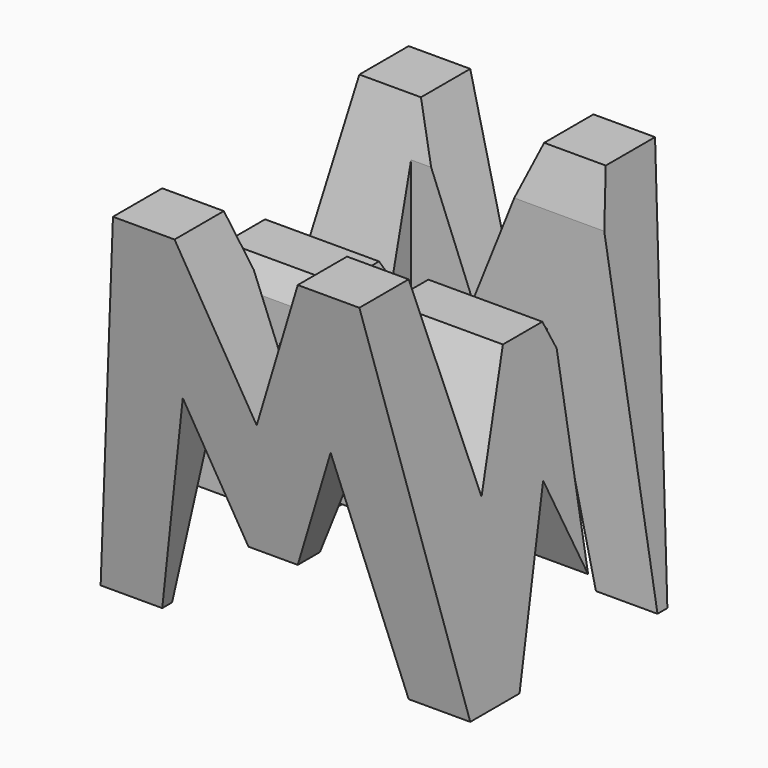
from build123d import *

# Parameters (mm, degrees)
F1_DEPTH = 38.1
F5_DEPTH = 38.1
F6_DEPTH = 38.1
F7_W     = 25.4
F7_H     = 7.62
F8_DEPTH = 38.1


with BuildPart() as f1:
    # F0 (on Front) → F1 (new body)
    with BuildSketch(Plane.XZ):
        Polygon((6.35, 38.1), (0, 0), (6.35, 0), (11.43, 22.225), (16.51, 9.525), (21.59, 9.525), (26.67, 22.225), (31.75, 0), (38.1, 0), (31.75, 38.1), (25.4, 38.1), (19.05, 22.225), (12.7, 38.1), align=None)
        Polygon((0, 38.1), (0, 0), (6.35, 38.1), align=None)
        Polygon((11.43, 22.225), (6.35, 0), (31.75, 0), (26.67, 22.225), (21.59, 9.525), (16.51, 9.525), align=None)
        Polygon((25.4, 38.1), (12.7, 38.1), (19.05, 22.225), align=None)
        Polygon((31.75, 38.1), (38.1, 0), (38.1, 38.1), align=None)
    extrude(amount=F1_DEPTH)

    # F4 (on offset) → F5 (cut)
    with BuildSketch(Plane.YZ.offset(38.1)):
        Polygon((-31.75, 0), (-38.1, 38.1), (-38.1, 0), align=None)
        Polygon((-11.43, 17.450867), (-6.35, 38.1), (-31.75, 38.1), (-26.67, 17.417177), (-21.59, 28.575), (-16.51, 28.575), align=None)
        Polygon((-25.4, 0), (-12.7, 0), (-19.05, 15.875), align=None)
        Polygon((-6.35, 0), (0, 0), (0, 38.1), align=None)
    extrude(amount=-F5_DEPTH, mode=Mode.SUBTRACT)

    # F0 (on Front) → F6 (cut)
    with BuildSketch(Plane.XZ):
        Polygon((31.75, 38.1), (38.1, 0), (38.1, 38.1), align=None)
        Polygon((25.4, 38.1), (12.7, 38.1), (19.05, 22.225), align=None)
        Polygon((0, 38.1), (0, 0), (6.35, 38.1), align=None)
        Polygon((11.43, 22.225), (6.35, 0), (31.75, 0), (26.67, 22.225), (21.59, 9.525), (16.51, 9.525), align=None)
    extrude(amount=F6_DEPTH, mode=Mode.SUBTRACT)

    # F7 (on offset) → F8 (cut)
    with BuildSketch(Plane.XY.offset(38.1)):
        with Locations((12.7, -26.67)):
            Rectangle(F7_W, F7_H)
        with Locations((25.4, -11.43)):
            Rectangle(F7_W, F7_H)
    extrude(amount=-F8_DEPTH, mode=Mode.SUBTRACT)


solid = f1.part
